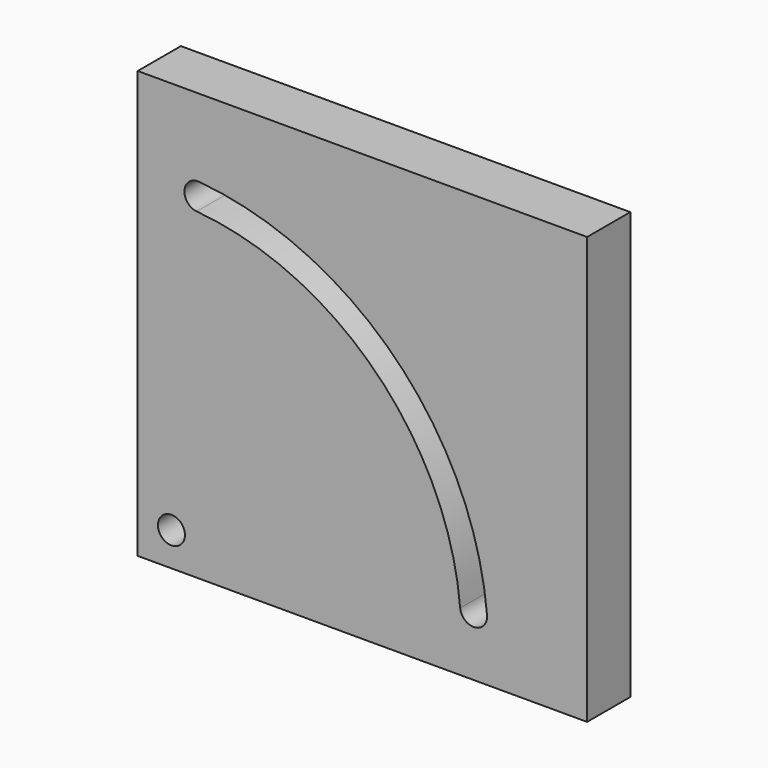
from build123d import *

# Parameters (mm, degrees)
F0_W     = 100
F0_H     = 95
F0_R     = 3
F1_DEPTH = 6


with BuildPart() as f1:
    # F0 (on Front) → F1 (new body, symmetric)
    with BuildSketch(Plane.XZ):
        with Locations((42.5, 40)):
            Rectangle(F0_W, F0_H)
        Circle(F0_R, mode=Mode.SUBTRACT)
        with BuildLine():
            ThreePointArc((5.6215454072, 64.2545580269), (2.8944285412, 67.5046093494), (6.1444798637, 70.2317262155))
            ThreePointArc((6.1444798637, 70.2317262155), (49.8510280737, 49.8510280737), (70.2317262155, 6.1444798637))
            ThreePointArc((70.2317262155, 6.1444798637), (67.5046093494, 2.8944285412), (64.2545580269, 5.6215454072))
            ThreePointArc((64.2545580269, 5.6215454072), (45.6083873865, 45.6083873865), (5.6215454072, 64.2545580269))
        make_face(mode=Mode.SUBTRACT)
    extrude(amount=F1_DEPTH, both=True)


solid = f1.part
